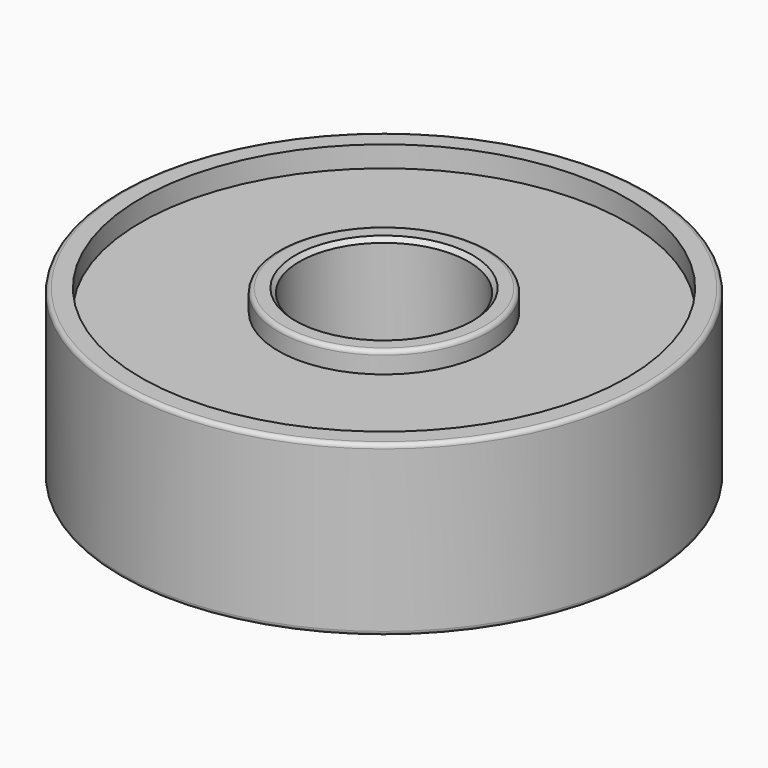
from build123d import *

# Parameters (mm, degrees)
F0_R     = 12.5
F1_DEPTH = 8
F2_R     = 4
F3_DEPTH = 8.001
F2_R_2   = 11.5
F2_R_3   = 5
F4_DEPTH = 1
F5_R     = 11.5
F5_R_2   = 5
F6_DEPTH = 1
F7_R     = 0.2
F8_SIZE  = 0.2


with BuildPart() as f1:
    # F0 (on Top) → F1 (new body)
    with BuildSketch(Plane.XY):
        Circle(F0_R)
    extrude(amount=F1_DEPTH)

    # F2 (on face) → F3 (cut, through all)
    with BuildSketch(Plane.XY.offset(8)):
        Circle(F2_R)
    extrude(amount=-F3_DEPTH, mode=Mode.SUBTRACT)

    # F2 (on face) → F4 (cut)
    with BuildSketch(Plane.XY.offset(8)):
        Circle(F2_R_2)
        Circle(F2_R_3, mode=Mode.SUBTRACT)
    extrude(amount=-F4_DEPTH, mode=Mode.SUBTRACT)

    # F5 (on face) → F6 (cut)
    with BuildSketch(Plane(origin=(0, 0, 0), x_dir=(1, 0, 0), z_dir=(0, 0, -1))):
        Circle(F5_R)
        Circle(F5_R_2, mode=Mode.SUBTRACT)
    extrude(amount=-F6_DEPTH, mode=Mode.SUBTRACT)

    # F7
    f7_edges = [f1.edges().sort_by_distance(p)[0] for p in [
        (-12.5, 0, 8),
        (-12.5, 0, 0),
        (-5, 0, 8),
        (-5, 0, 0),
    ]]
    fillet(f7_edges, radius=F7_R)

    # F8
    f8_edges = [f1.edges().sort_by_distance(p)[0] for p in [
        (-4, 0, 8),
        (-4, 0, 0),
    ]]
    chamfer(f8_edges, length=F8_SIZE)


solid = f1.part
